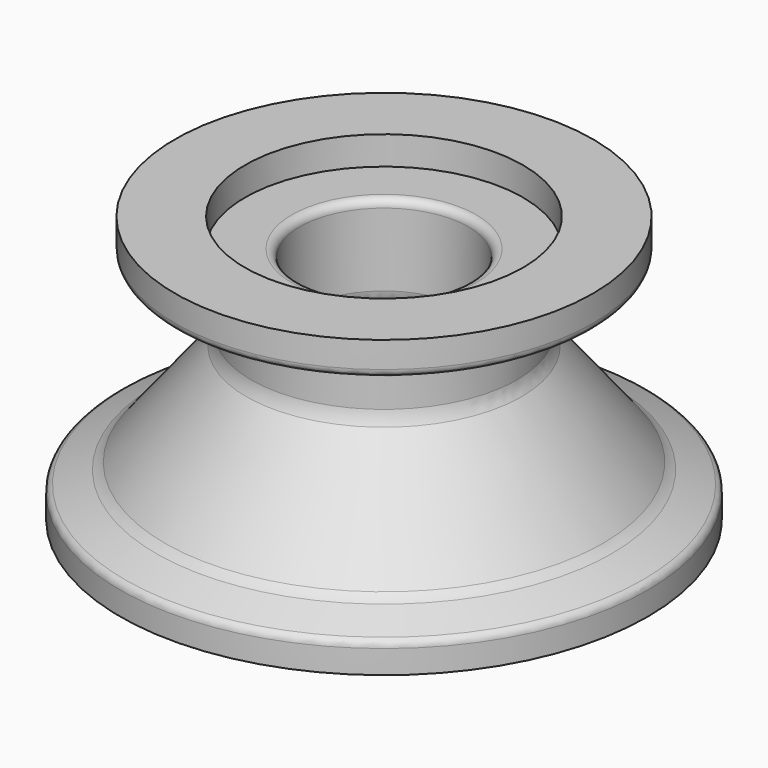
from build123d import *

# Parameters (mm, degrees)
F2_R = 0.762
F3_R = 0.508
F4_R = 2.032
F5_R = 0.381


with BuildPart() as f1:
    # F0 (on Front) → F1 (revolve)
    with BuildSketch(Plane.XZ):
        with BuildLine():
            Line((13.2461, 8.854991), (13.2461, 6.137191))
            Line((13.2461, 6.137191), (8.024123, 6.137191))
            Line((8.024123, 6.137191), (8.024123, -1.455405))
            Line((8.024123, -1.455405), (8.024123, -2.2843))
            Line((8.024123, -2.2843), (17.8689, -14.632808))
            Line((17.8689, -14.632808), (17.8689, -16.545009))
            Line((17.8689, -16.545009), (20.4089, -16.545009))
            ThreePointArc((20.4089, -16.545009), (21.92655, -15.027359), (23.4442, -16.545009))
            Line((23.4442, -16.545009), (25.146, -16.545009))
            Line((25.146, -16.545009), (25.146, -13.801809))
            Line((25.146, -13.801809), (21.2217, -12.176209))
            Line((21.2217, -12.176209), (12.6746, -1.455405))
            Line((12.6746, -1.455405), (12.6746, 3.571791))
            Line((12.6746, 3.571791), (19.9136, 5.806991))
            Line((19.9136, 5.806991), (19.9136, 8.854991))
            Line((19.9136, 8.854991), (13.2461, 8.854991))
        make_face()
    revolve(axis=Axis((0, 0, 17.989578), (0, 0, 1)))

    # F2
    f2_edges = [f1.edges().sort_by_distance(p)[0] for p in [
        (-25.146, 0, -13.801809),
        (-19.9136, 0, 5.806991),
        (-8.024123, 0, 6.137191),
        (-17.8689, 0, -14.632808),
    ]]
    fillet(f2_edges, radius=F2_R)

    # F3
    f3_edges = [f1.edges().sort_by_distance(p)[0] for p in [
        (-17.8689, 0, -16.545009),
    ]]
    fillet(f3_edges, radius=F3_R)

    # F4
    f4_edges = [f1.edges().sort_by_distance(p)[0] for p in [
        (-12.6746, 0, -1.455405),
        (-12.6746, 0, 3.571791),
        (-21.2217, 0, -12.176209),
        (-8.024123, 0, -2.2843),
    ]]
    fillet(f4_edges, radius=F4_R)

    # F5
    f5_edges = [f1.edges().sort_by_distance(p)[0] for p in [
        (-23.4442, 0, -16.545009),
        (-20.4089, 0, -16.545009),
    ]]
    fillet(f5_edges, radius=F5_R)


solid = f1.part
